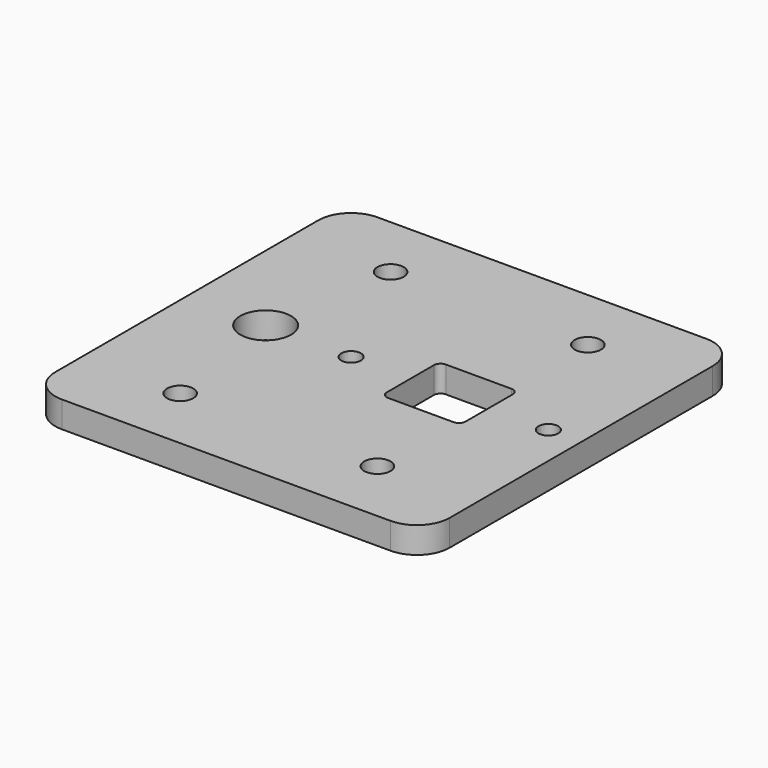
from build123d import *

# Parameters (mm, degrees)
F0_W     = 60
F0_H     = 60
F0_R     = 3.862791
F0_R_2   = 1.5
F0_W_2   = 12
F0_H_2   = 11
F1_DEPTH = 4
F2_R     = 2
F3_DEPTH = 25
F4_R     = 5
F5_R     = 1


with BuildPart() as f1:
    # F0 (on Top) → F1 (new body)
    with BuildSketch(Plane.XY):
        Rectangle(F0_W, F0_H)
        with Locations((-18, 0)):
            Circle(F0_R, mode=Mode.SUBTRACT)
        with Locations((-5, 0)):
            Circle(F0_R_2, mode=Mode.SUBTRACT)
        with Locations((10, 0)):
            Rectangle(F0_W_2, F0_H_2, mode=Mode.SUBTRACT)
        with Locations((25, 0)):
            Circle(F0_R_2, mode=Mode.SUBTRACT)
    extrude(amount=F1_DEPTH)

    # F2 (on face) → F3 (cut)
    with BuildSketch(Plane.XY.offset(4)):
        with Locations((-15, 20)):
            Circle(F2_R)
        with Locations((15, 20)):
            Circle(F2_R)
        with Locations((15, -20)):
            Circle(F2_R)
        with Locations((-15, -20)):
            Circle(F2_R)
    extrude(amount=-F3_DEPTH, mode=Mode.SUBTRACT)

    # F4
    f4_edges = [f1.edges().sort_by_distance(p)[0] for p in [
        (-30, 30, 2),
        (-30, -30, 2),
        (30, -30, 2),
        (30, 30, 2),
    ]]
    fillet(f4_edges, radius=F4_R)

    # F5
    f5_edges = [f1.edges().sort_by_distance(p)[0] for p in [
        (4, 5.5, 2),
        (16, 5.5, 2),
        (16, -5.5, 2),
        (4, -5.5, 2),
    ]]
    fillet(f5_edges, radius=F5_R)


solid = f1.part
